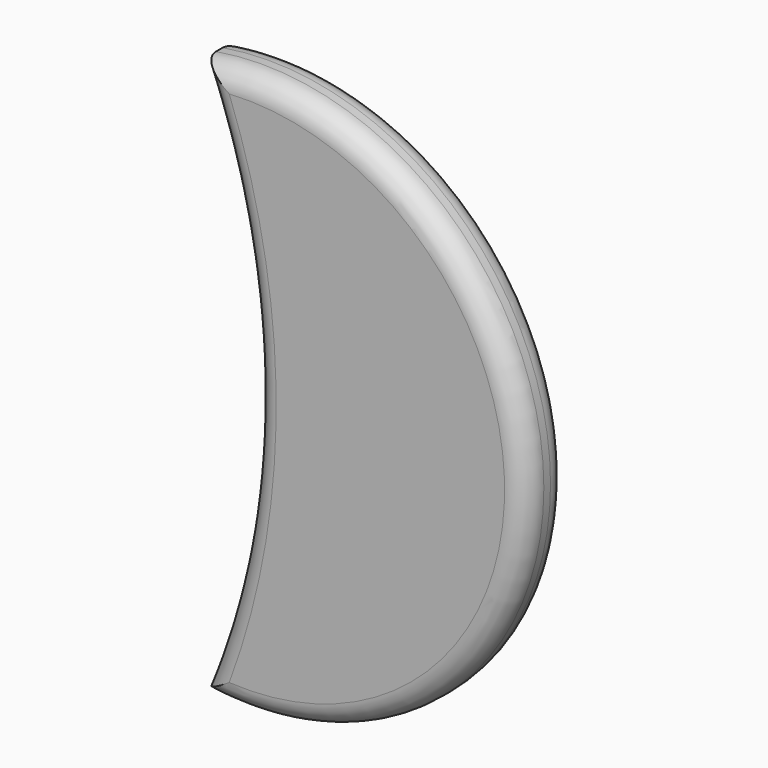
from build123d import *

# Parameters (mm, degrees)
F1_DEPTH = 5.842
F2_R     = 2.452841


with BuildPart() as f1:
    # F0 (on Front) → F1 (new body)
    with BuildSketch(Plane.XZ):
        with BuildLine():
            ThreePointArc((0, 28.678283), (6.286108, -2.530437), (0, -33.739157))
            ThreePointArc((0, -33.739157), (36.877814, -2.530437), (0, 28.678283))
        make_face()
    extrude(amount=F1_DEPTH)

    # F2
    f2_edges = [f1.edges().sort_by_distance(p)[0] for p in [
        (6.286108, -5.842, -2.530437),
        (36.877814, -5.842, -2.530437),
        (36.877814, 0, -2.530437),
        (6.286108, 0, -2.530437),
    ]]
    fillet(f2_edges, radius=F2_R)


solid = f1.part
